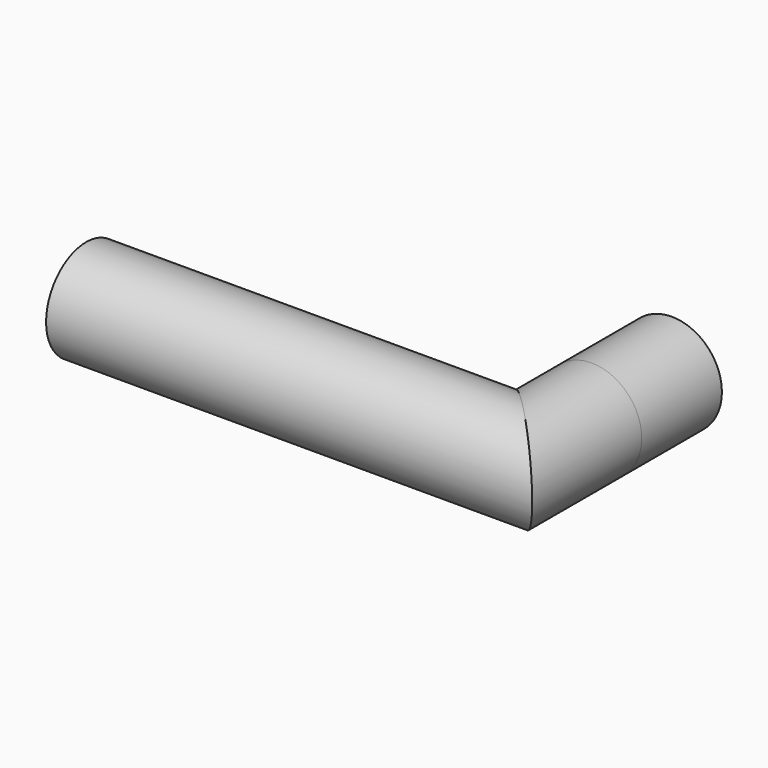
from build123d import *

# Parameters (mm, degrees)
F0_R      = 6.35
F1_DEPTH  = 12.7
F1_FACE_R = 6.35


with BuildPart() as f1:
    # F0 (on Front) → F1 (new body)
    with BuildSketch(Plane.XZ):
        Circle(F0_R)
    extrude(amount=F1_DEPTH)

    # F3: sweep along a path in F2
    with BuildLine(Plane.XY) as f3_path:
        Line((0, -14.849501662), (0, -23.7148739398))
        Line((0, -23.7148739398), (-57.4032962322, -23.7148739398))
    # F1_face (on face) → F3 (sweep)
    with BuildSketch(Plane.XZ.offset(12.7)):
        Circle(F1_FACE_R)
    sweep(path=f3_path.line, transition=Transition.RIGHT)


solid = f1.part
